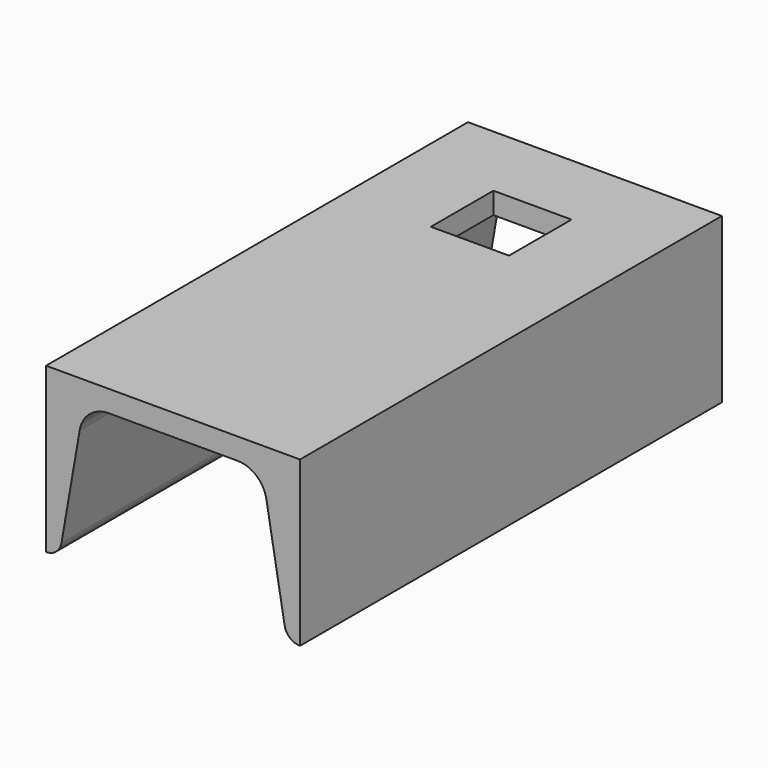
from build123d import *

# Parameters (mm, degrees)
SKETCH011_W      = 20
SKETCH011_H      = 20
EXTRUDE012_DEPTH = 15
EXTRUDE011_DEPTH = 135


with BuildPart() as extrude012:
    # Sketch011 (on Face2 of Extrude011) → Extrude012 (new body, symmetric)
    with BuildSketch(Plane.XY.offset(81)):
        with Locations((0, 310.871999)):
            Rectangle(SKETCH011_W, SKETCH011_H)
    extrude(amount=EXTRUDE012_DEPTH, both=True)


with BuildPart() as u068:
    # Sketch013 (on Face6 of Extrude013) → Extrude011 (new body)
    with BuildSketch(Plane(origin=(0, 205.871999, 0), x_dir=(-1, 0, 0), z_dir=(0, 1, 0))):
        with BuildLine():
            Line((-32.5, 39), (-32.5, 81))
            Line((-32.5, 81), (32.5, 81))
            Line((32.5, 81), (32.5, 39))
            ThreePointArc((28.55865, 42.317536), (29.924137, 39.939783), (32.5, 39))
            Line((23.890032, 69.27962), (28.55865, 42.317536))
            ThreePointArc((23.890032, 69.27962), (21.329744, 73.737907), (16.5, 75.5))
            Line((-16.5, 75.5), (16.5, 75.5))
            ThreePointArc((-16.5, 75.5), (-21.329744, 73.737907), (-23.890032, 69.27962))
            Line((-23.890032, 69.27962), (-28.55865, 42.317536))
            ThreePointArc((-32.5, 39), (-29.924137, 39.939783), (-28.55865, 42.317536))
        make_face()
    extrude(amount=EXTRUDE011_DEPTH)

    # Cut004: cut Extrude012
    add(extrude012.part, mode=Mode.SUBTRACT)


solid = u068.part
